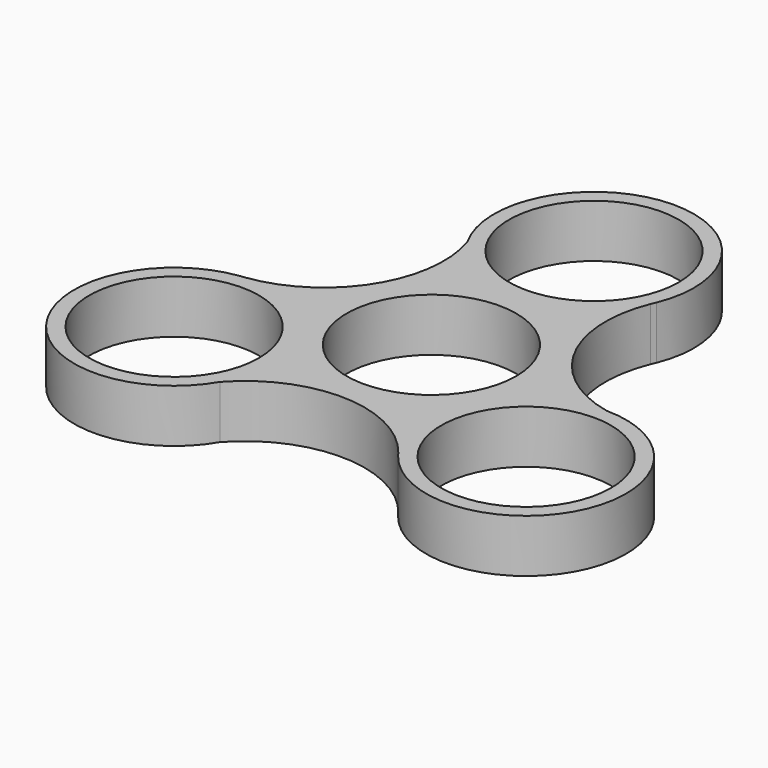
from build123d import *

# Parameters (mm, degrees)
F0_R     = 11.2
F1_DEPTH = 7


with BuildPart() as f1:
    # F0 (on Top) → F1 (new body)
    with BuildSketch(Plane.XY):
        with BuildLine():
            ThreePointArc((23.30928, -0.214358), (12.611296, 7.857897), (11.960537, 21.243885))
            ThreePointArc((11.960537, 21.243885), (12.093594, 21.558476), (12.23342, 21.870118))
            ThreePointArc((12.23342, 21.870118), (-0.876031, 39.999186), (-11.469, 20.293608))
            ThreePointArc((-11.469, 20.293608), (-13.110787, 6.992755), (-24.378013, -0.263813))
            ThreePointArc((-24.378013, -0.263813), (-24.716985, -0.305878), (-25.056787, -0.340607))
            ThreePointArc((-25.056787, -0.340607), (-34.202296, -20.758258), (-11.84028, -20.079249))
            ThreePointArc((-11.84028, -20.079249), (0.49949, -14.850652), (12.417475, -20.980072))
            ThreePointArc((12.417475, -20.980072), (12.623391, -21.252598), (12.823368, -21.529511))
            ThreePointArc((12.823368, -21.529511), (35.078326, -19.240928), (23.30928, -0.214358))
        make_face()
        with Locations((-23.233978, -13.414144)):
            Circle(F0_R, mode=Mode.SUBTRACT)
        with Locations((23.233978, -13.414144)):
            Circle(F0_R, mode=Mode.SUBTRACT)
        Circle(F0_R, mode=Mode.SUBTRACT)
        with Locations((0, 26.828287)):
            Circle(F0_R, mode=Mode.SUBTRACT)
    extrude(amount=F1_DEPTH)


solid = f1.part
